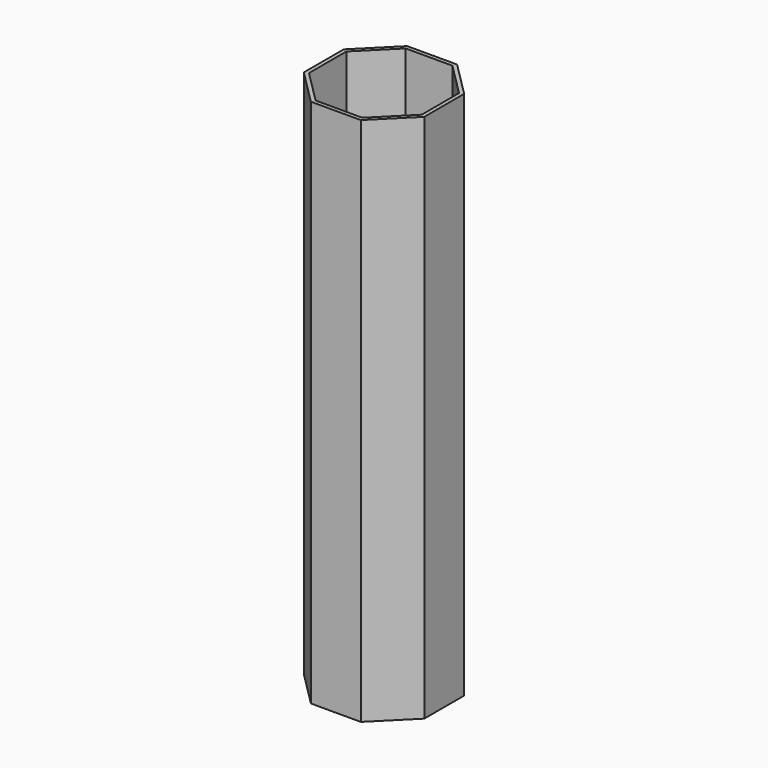
from build123d import *

# Parameters (mm, degrees)
PAD_DEPTH = 110


with BuildPart() as part:
    # Sketch → Pad (new body)
    with BuildSketch(Plane.XY):
        Polygon((-12.5, 5.17767), (-12.5, -5.17767), (-5.17767, -12.5), (5.17767, -12.5), (12.5, -5.17767), (12.5, 5.17767), (5.17767, 12.5), (-5.17767, 12.5), align=None)
        Polygon((11.7, -4.846299), (11.7, 4.846299), (4.846299, 11.7), (-4.846299, 11.7), (-11.7, 4.846299), (-11.7, -4.846299), (-4.846299, -11.7), (4.846299, -11.7), align=None, mode=Mode.SUBTRACT)
    extrude(amount=PAD_DEPTH)


solid = part.part
